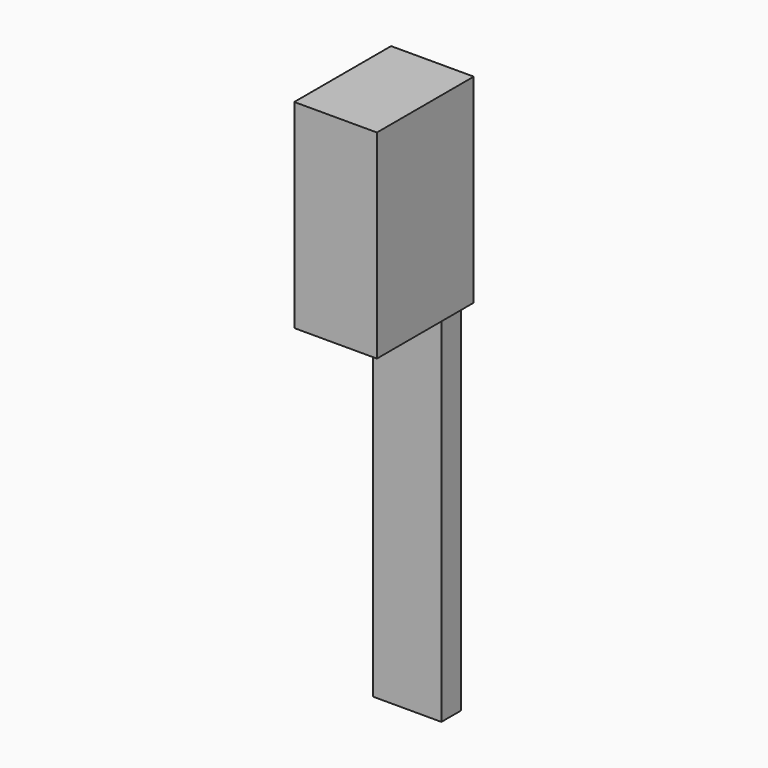
from build123d import *

# Parameters (mm, degrees)
F0_W     = 9.525
F0_H     = 77.75448
F1_DEPTH = 15.875
F2_W     = 12.4875006322
F2_H     = 50
F3_DEPTH = 25
F5_DEPTH = 1
F7_DEPTH = 1
F9_DEPTH = 1


with BuildPart() as f1:
    # F0 (on Front) → F1 (new body)
    with BuildSketch(Plane.XZ):
        Rectangle(F0_W, F0_H)
    extrude(amount=F1_DEPTH)

    # F2 (on face) → F3 (cut)
    with BuildSketch(Plane.YZ.offset(4.7625)):
        with Locations((-9.6312496839, -13.87724)):
            Rectangle(F2_W, F2_H)
    extrude(amount=-F3_DEPTH, mode=Mode.SUBTRACT)

    # F4 (on face) → F5 (join)
    with BuildSketch(Plane(origin=(-4.7625, 0, 0), x_dir=(0, -1, 0), z_dir=(-1, 0, 0))):
        Polygon((0, 11.12276), (3.3874993678, 11.12276), (15.875, 11.12276), (15.875, 38.87724), (0, 38.87724), align=None)
    extrude(amount=F5_DEPTH)

    # F6 (on face) → F7 (join)
    with BuildSketch(Plane.YZ.offset(4.7625)):
        Polygon((-15.875, 11.12276), (-3.3874993678, 11.12276), (0, 11.12276), (0, 38.87724), (-15.875, 38.87724), align=None)
    extrude(amount=F7_DEPTH)

    # F8 (on face) → F9 (join)
    with BuildSketch(Plane(origin=(0, 0, 0), x_dir=(-1, 0, 0), z_dir=(0, 1, 0))):
        Polygon((-5.7625, 38.87724), (-5.7625, 11.12276), (-4.7625, 11.12276), (4.7625, 11.12276), (5.7625, 11.12276), (5.7625, 38.87724), align=None)
    extrude(amount=F9_DEPTH)


solid = f1.part
